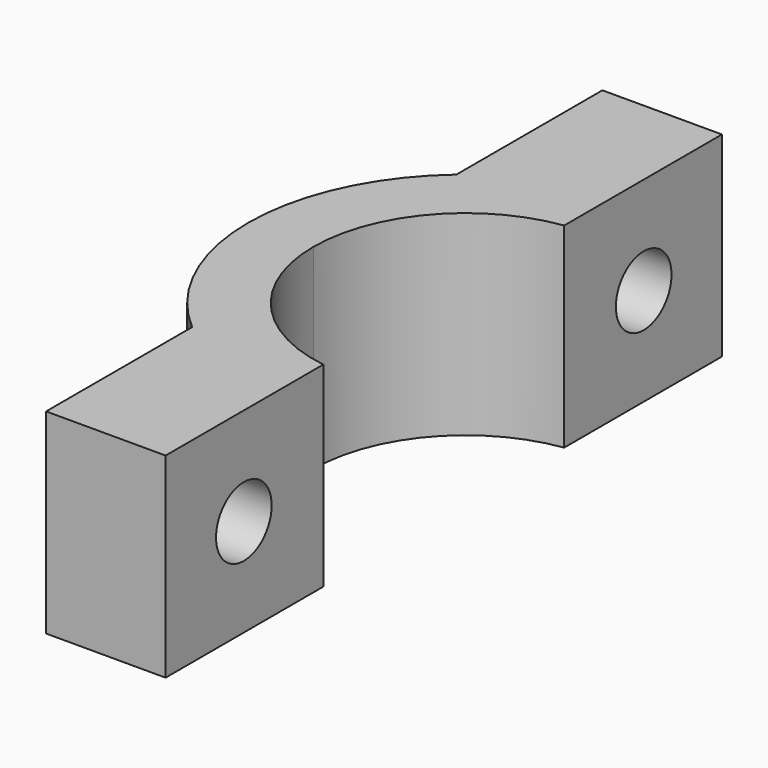
from build123d import *

# Parameters (mm, degrees)
PAD_DEPTH       = 9
POCKET_DEPTH    = 3
SKETCH002_R     = 1.6
POCKET001_DEPTH = 5


with BuildPart() as pocket001:
    # Sketch → Pad (new body)
    with BuildSketch(Plane.XY):
        with BuildLine():
            ThreePointArc((-1, 6.928203), (-5.291503, 4.582576), (-7, 0))
            Line((-10, 0), (-7, 0))
            ThreePointArc((-6.5, 7.599342), (-9.082951, 4.1833), (-10, 0))
            Line((-6.5, 7.599342), (-6.5, 16))
            Line((-6.5, 16), (-1, 16))
            Line((-1, 16), (-1, 6.928203))
        make_face()
    extrude(amount=PAD_DEPTH)

    # Sketch001 → Pocket (cut)
    with BuildSketch(Plane(origin=(-6.5, 0, 0), x_dir=(0, -1, 0), z_dir=(-1, 0, 0))):
        Polygon((-13.232051, 7.5), (-9.767949, 7.5), (-8.035898, 4.5), (-9.767949, 1.5), (-13.232051, 1.5), (-14.964102, 4.5), align=None)
    extrude(amount=-POCKET_DEPTH, mode=Mode.SUBTRACT)

    # Sketch002 → Pocket001 (cut)
    with BuildSketch(Plane(origin=(-3.5, 0, 0), x_dir=(0, -1, 0), z_dir=(-1, 0, 0))):
        with Locations((-11.5, 4.5)):
            Circle(SKETCH002_R)
    extrude(amount=-POCKET001_DEPTH, mode=Mode.SUBTRACT)


with BuildPart() as part_mirroring:
    # Part__Mirroring: instance of Pocket001
    add(pocket001.part.mirror(Plane(origin=(0, 0, 0), x_dir=(1, 0, 0), z_dir=(0, 1, 0))))


with BuildPart() as fusion:
    # Fusion base: copy of Pocket001
    add(pocket001.part)

    # Fusion: union Part__Mirroring
    add(part_mirroring.part)


solid = fusion.part
